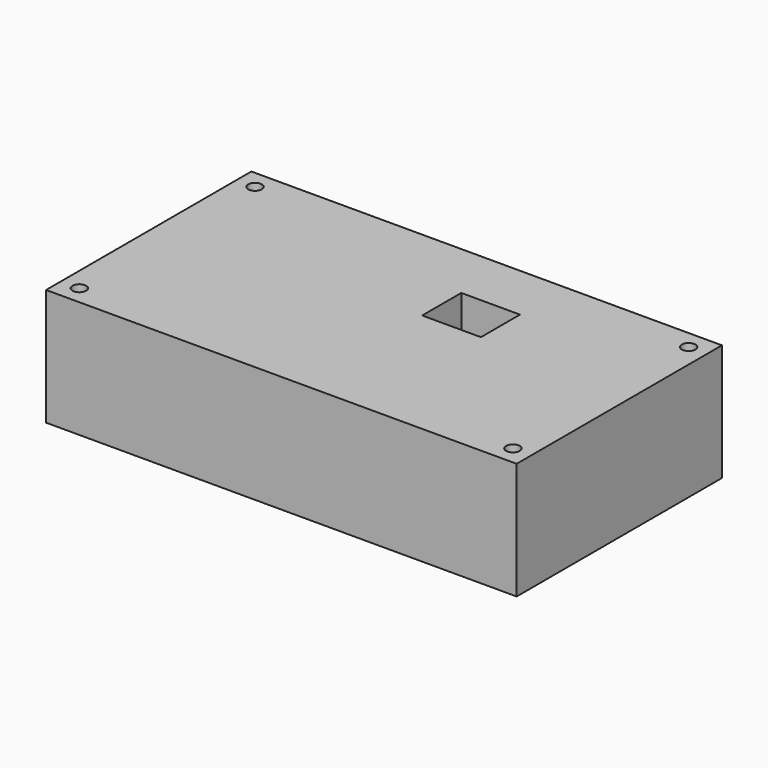
from build123d import *

# Parameters (mm, degrees)
SKETCH008_W         = 120.815
SKETCH008_H         = 65.873
PAD004_DEPTH        = 30
HOLE002_D           = 3.5
HOLE002_CBORE_D     = 6
HOLE002_CBORE_DEPTH = 20
SKETCH010_W         = 15.08
SKETCH010_H         = 12.54
POCKET002_DEPTH     = 30.001
SKETCH011_W         = 15.08
SKETCH011_H         = 14.883
POCKET003_DEPTH     = 10


with BuildPart() as part:
    # Sketch008 (on Face1 of Binder002) → Pad004 (new body)
    with BuildSketch(Plane(origin=(0, 0, -35), x_dir=(1, 0, 0), z_dir=(0, 0, -1))):
        with Locations((50.4075, -22.9365)):
            Rectangle(SKETCH008_W, SKETCH008_H)
    extrude(amount=PAD004_DEPTH)

    # Hole002 (through all)
    with Locations(Plane(origin=(0, 0, -65), x_dir=(1, 0, 0), z_dir=(0, 0, -1))):
        with Locations((-5.25, 5.25), (106.065, 5.25), (106.065, -51.123), (-5.25, -51.123)):
            CounterBoreHole(HOLE002_D / 2, HOLE002_CBORE_D / 2, HOLE002_CBORE_DEPTH)

    # Sketch010 (on Face5 of Hole002) → Pocket002 (cut, through all)
    with BuildSketch(Plane(origin=(0, 0, -65), x_dir=(1, 0, 0), z_dir=(0, 0, -1))):
        with Locations((63.34, -34.72)):
            Rectangle(SKETCH010_W, SKETCH010_H)
    extrude(amount=-POCKET002_DEPTH, mode=Mode.SUBTRACT)

    # Sketch011 (on Face5 of Pocket002) → Pocket003 (cut)
    with BuildSketch(Plane(origin=(0, 0, -65), x_dir=(1, 0, 0), z_dir=(0, 0, -1))):
        with Locations((63.34, -48.4315)):
            Rectangle(SKETCH011_W, SKETCH011_H)
    extrude(amount=-POCKET003_DEPTH, mode=Mode.SUBTRACT)


solid = part.part
